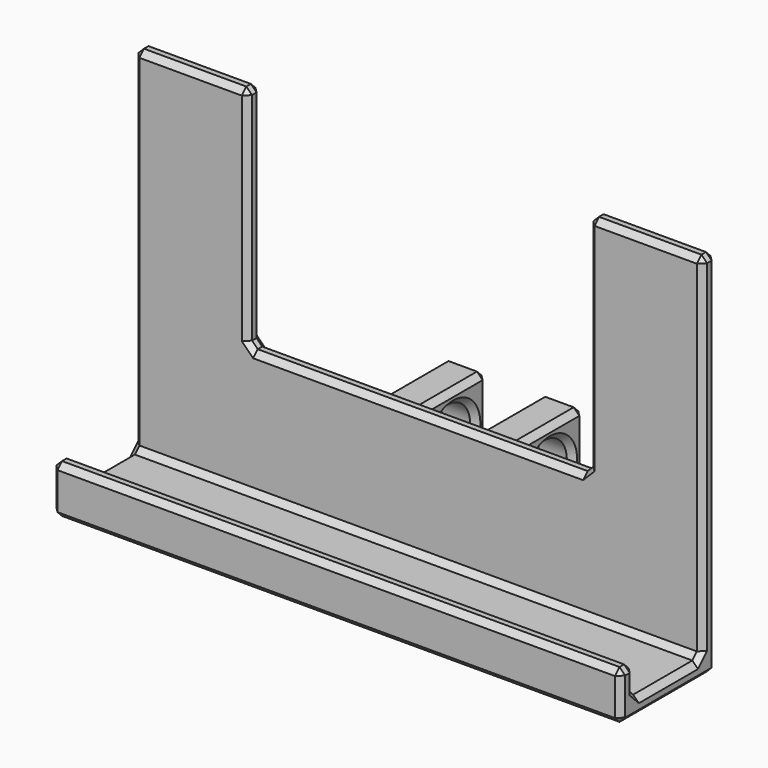
from build123d import *

# Parameters (mm, degrees)
F1_DEPTH = 3
F3_DEPTH = 100
F4_W     = 7
F4_H     = 15
F5_DEPTH = 20
F6_R     = 5
F7_DEPTH = 25
F8_SIZE  = 1


with BuildPart() as f1:
    # F0 (on Front) → F1 (new body)
    with BuildSketch(Plane.XZ):
        Polygon((-48.7427460821, 65), (-48.7427460821, 0), (51.2572539179, 0), (51.2572539179, 65), (31.2572539179, 65), (31.2572539179, 25), (-28.7427460821, 25), (-28.7427460821, 65), align=None)
    extrude(amount=F1_DEPTH)

    # F2 (on face) → F3 (join)
    with BuildSketch(Plane.YZ.offset(51.2572539179)):
        Polygon((-21, 0), (-3, 0), (-3, 2.9999055994), (-18, 2.9999055994), (-18, 8.5), (-21, 8.5), align=None)
    extrude(amount=-F3_DEPTH)

    # F4 (on face) → F5 (join)
    with BuildSketch(Plane(origin=(0, 0, 0), x_dir=(-1, 0, 0), z_dir=(0, 1, 0))):
        with Locations((-8.5, 12.5750002265)):
            Rectangle(F4_W, F4_H)
        with Locations((8.5, 12.5750002265)):
            Rectangle(F4_W, F4_H)
    extrude(amount=F5_DEPTH)

    # F6 (on face) → F7 (cut)
    with BuildSketch(Plane.YZ.offset(12)):
        with Locations((12.5, 12.5750002265)):
            Circle(F6_R)
    extrude(amount=-F7_DEPTH, mode=Mode.SUBTRACT)

    # F8
    f8_edges = [f1.edges().sort_by_distance(p)[0] for p in [
        (1.257254, -3, 2.999906),
        (1.257254, -18, 2.999906),
        (12, 0, 12.575),
        (8.5, 0, 20.075),
        (5, 0, 12.575),
        (8.5, 0, 5.075),
        (-8.5, 0, 5.075),
        (-12, 0, 12.575),
        (-8.5, 0, 20.075),
        (-5, 0, 12.575),
        (12, 7.5, 12.575),
        (5, 7.5, 12.575),
        (-12, 7.5, 12.575),
        (-5, 7.5, 12.575),
        (51.257254, -10.5, 0),
        (1.257254, -21, 0),
        (1.257254, 0, 0),
        (-48.742746, -10.5, 0),
        (1.257254, -21, 8.5),
        (1.257254, -18, 8.5),
        (-48.742746, -19.5, 8.5),
        (51.257254, -19.5, 8.5),
        (1.257254, -3, 25),
        (31.257254, -3, 45),
        (41.257254, -3, 65),
        (51.257254, -3, 33.999953),
        (-48.742746, -3, 33.999953),
        (-48.742746, 0, 32.5),
        (-28.742746, -3, 45),
        (-38.742746, -3, 65),
        (-28.742746, 0, 45),
        (1.257254, 0, 25),
        (31.257254, 0, 45),
        (31.257254, -1.5, 65),
        (31.257254, -1.5, 25),
        (-28.742746, -1.5, 65),
        (51.257254, 0, 32.5),
        (41.257254, 0, 65),
        (-48.742746, -10.5, 2.999906),
        (-38.742746, 0, 65),
        (12, 10, 20.075),
        (5, 10, 20.075),
        (5, 10, 5.075),
        (-5, 10, 20.075),
        (-12, 10, 20.075),
        (-12, 10, 5.075),
        (8.5, 20, 20.075),
        (8.5, 20, 5.075),
        (-5, 20, 12.575),
        (-8.5, 20, 20.075),
        (-12, 20, 12.575),
        (51.257254, -1.5, 65),
        (-28.742746, -1.5, 25),
        (-48.742746, -1.5, 65),
        (-48.742746, -18, 5.749953),
        (51.257254, -10.5, 2.999906),
        (51.257254, -21, 4.25),
        (-48.742746, -21, 4.25),
        (51.257254, -18, 5.749953),
        (12, 20, 12.575),
        (5, 20, 12.575),
        (12, 10, 5.075),
        (-5, 10, 5.075),
        (-8.5, 20, 5.075),
    ]]
    chamfer(f8_edges, length=F8_SIZE)


solid = f1.part
